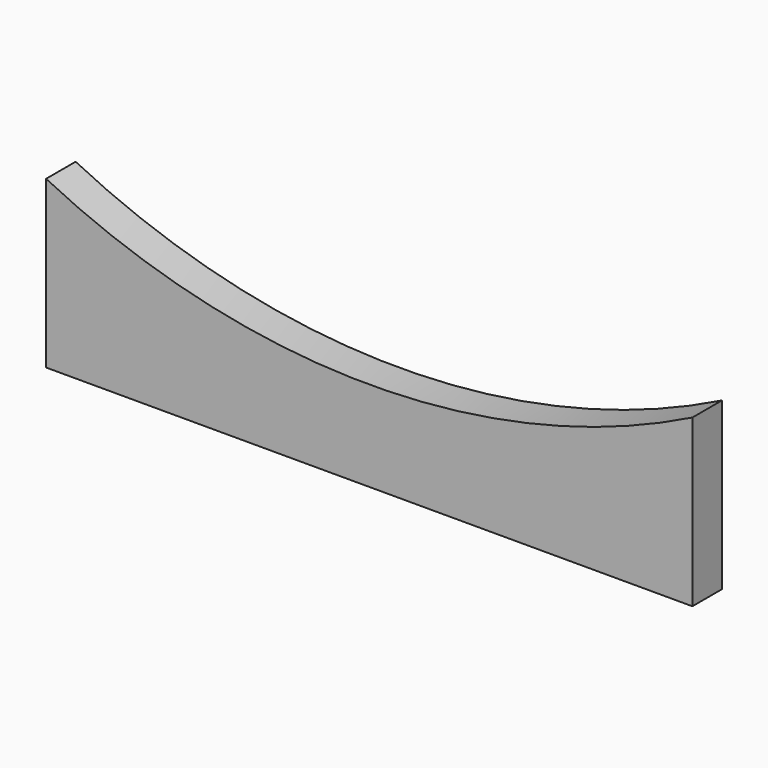
from build123d import *

# Parameters (mm, degrees)
F1_DEPTH = 20
F2_DEPTH = 20


with BuildPart() as f1:
    # F0 (on Front) → F1 (new body)
    with BuildSketch(Plane.XZ):
        with BuildLine():
            Line((-175, 90), (-175, 0))
            Line((-175, 0), (175, 0))
            Line((175, 0), (175, 90))
            ThreePointArc((175, 90), (0, 48.809005), (-175, 90))
        make_face()
    extrude(amount=F1_DEPTH)

    # F0 (on Front) → F2 (join)
    with BuildSketch(Plane.XZ):
        with BuildLine():
            Line((-175, 90), (-175, 0))
            Line((-175, 0), (175, 0))
            Line((175, 0), (175, 90))
            ThreePointArc((175, 90), (0, 48.809005), (-175, 90))
        make_face()
    extrude(amount=F2_DEPTH)


solid = f1.part
